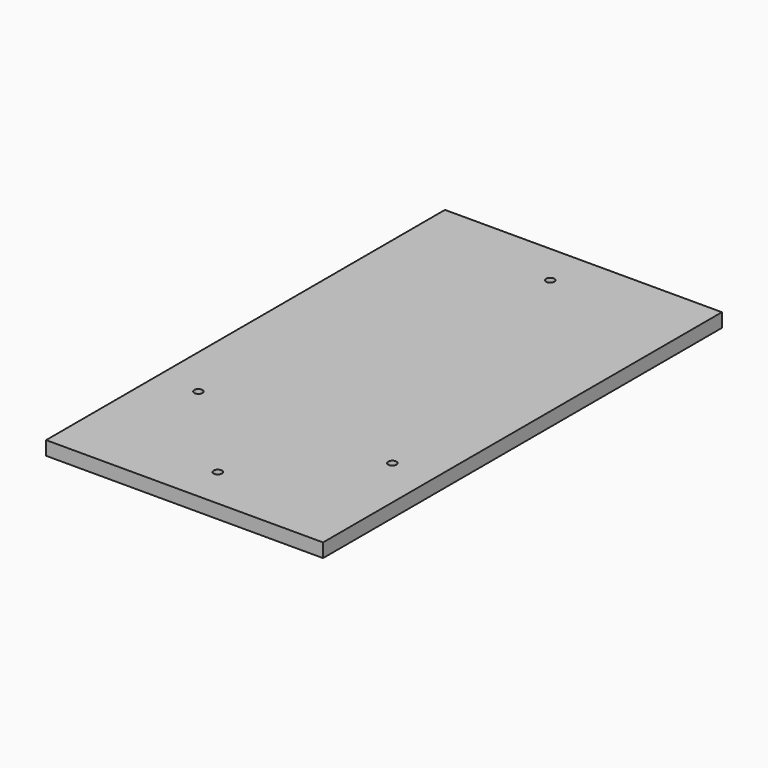
from build123d import *

# Parameters (mm, degrees)
F0_W     = 100
F0_H     = 180
F1_DEPTH = 5
F3_D     = 3


with BuildPart() as f1:
    # F0 (on Top) → F1 (new body)
    with BuildSketch(Plane.XY):
        Rectangle(F0_W, F0_H)
    extrude(amount=-F1_DEPTH)

    # F3 (through all)
    with Locations(Plane.XY):
        with Locations((-35, -40), (0, -75), (35, -40), (0, 75)):
            Hole(F3_D / 2)


solid = f1.part
